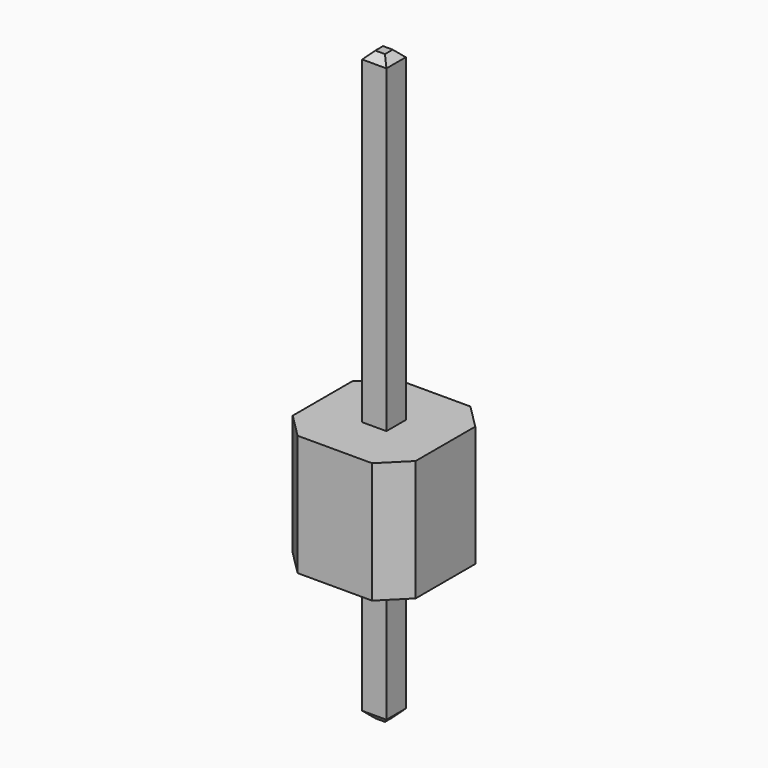
from build123d import *

# Parameters (mm, degrees)
SKETCH_W        = 0.5
SKETCH_H        = 0.5
PAD_DEPTH       = 12.15
CHAMFER_SIZE    = 0.15
SKETCH001_W     = 2.54
SKETCH001_H     = 2.54
PAD001_DEPTH    = 2.5
CHAMFER001_SIZE = 0.5


with BuildPart() as pins:
    # Sketch → Pad (new body)
    with BuildSketch(Plane.XY):
        Rectangle(SKETCH_W, SKETCH_H)
    extrude(amount=PAD_DEPTH)

    # Chamfer
    chamfer_edges = [pins.edges().sort_by_distance(p)[0] for p in [
        (0, 0.25, 12.15),
        (0.25, 0, 12.15),
        (0, -0.25, 12.15),
        (-0.25, 0, 12.15),
        (0, 0.25, 0),
        (0.25, 0, 0),
        (0, -0.25, 0),
        (-0.25, 0, 0),
    ]]
    chamfer(chamfer_edges, length=CHAMFER_SIZE)


with BuildPart() as pins_1:
    # Body placement: moved
    add(pins.part.moved(Location((0, 0, -2.9))))


with BuildPart() as body:
    # Sketch001 → Pad001 (new body)
    with BuildSketch(Plane.XY):
        Rectangle(SKETCH001_W, SKETCH001_H)
    extrude(amount=PAD001_DEPTH)

    # Chamfer001
    chamfer001_edges = [body.edges().sort_by_distance(p)[0] for p in [
        (1.27, -1.27, 1.25),
        (1.27, 1.27, 1.25),
        (-1.27, 1.27, 1.25),
        (-1.27, -1.27, 1.25),
    ]]
    chamfer(chamfer001_edges, length=CHAMFER001_SIZE)


solid = Compound([pins_1.part, body.part])
